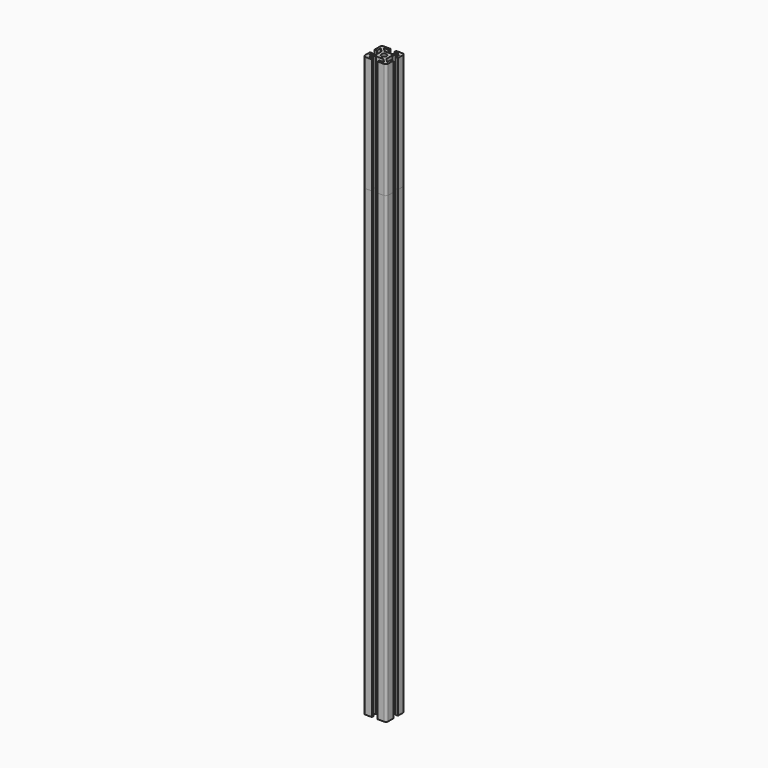
from build123d import *

# Parameters (mm, degrees)
F0_R     = 2.25
F1_DEPTH = 500
F2_DEPTH = 500
F3_DEPTH = 400


with BuildPart() as f1:
    # F0 (on Top) → F1 (new body)
    with BuildSketch(Plane.XY):
        with BuildLine():
            ThreePointArc((-10, -8), (-9.414214, -9.414214), (-8, -10))
            Line((-8, -10), (-2.5, -10))
            Line((-2.5, -10), (-2.5, -8))
            Line((-2.5, -8), (-6.585786, -8))
            Line((-6.585786, -8), (-3.204844, -4.619057))
            Line((-3.204844, -4.619057), (0, -4.619057))
            Line((0, -4.619057), (3.204844, -4.619057))
            Line((3.204844, -4.619057), (6.585786, -8))
            Line((6.585786, -8), (2.5, -8))
            Line((2.5, -8), (2.5, -10))
            Line((2.5, -10), (8, -10))
            ThreePointArc((8, -10), (9.414214, -9.414214), (10, -8))
            Line((10, -8), (10, -2.5))
            Line((10, -2.5), (8, -2.5))
            Line((8, -2.5), (8, -6.585786))
            Line((8, -6.585786), (4.619057, -3.204844))
            Line((4.619057, -3.204844), (4.619057, 0))
            Line((4.619057, 0), (4.619057, 3.204844))
            Line((4.619057, 3.204844), (8, 6.585786))
            Line((8, 6.585786), (8, 2.5))
            Line((8, 2.5), (10, 2.5))
            Line((10, 2.5), (10, 8))
            ThreePointArc((10, 8), (9.414214, 9.414214), (8, 10))
            Line((8, 10), (2.5, 10))
            Line((2.5, 10), (2.5, 8))
            Line((2.5, 8), (6.585786, 8))
            Line((6.585786, 8), (3.204844, 4.619057))
            Line((3.204844, 4.619057), (0, 4.619057))
            Line((0, 4.619057), (-3.204844, 4.619057))
            Line((-3.204844, 4.619057), (-6.585786, 8))
            Line((-6.585786, 8), (-2.5, 8))
            Line((-2.5, 8), (-2.5, 10))
            Line((-2.5, 10), (-8, 10))
            ThreePointArc((-8, 10), (-9.414214, 9.414214), (-10, 8))
            Line((-10, 8), (-10, 2.5))
            Line((-10, 2.5), (-8, 2.5))
            Line((-8, 2.5), (-8, 6.585786))
            Line((-8, 6.585786), (-4.619057, 3.204844))
            Line((-4.619057, 3.204844), (-4.619057, 0))
            Line((-4.619057, 0), (-4.619057, -3.204844))
            Line((-4.619057, -3.204844), (-8, -6.585786))
            Line((-8, -6.585786), (-8, -2.5))
            Line((-8, -2.5), (-10, -2.5))
            Line((-10, -2.5), (-10, -8))
        make_face()
        Circle(F0_R, mode=Mode.SUBTRACT)
    extrude(amount=F1_DEPTH)


with BuildPart() as f2:
    # F0 (on Top) → F2 (new body)
    with BuildSketch(Plane.XY):
        with BuildLine():
            ThreePointArc((-10, -8), (-9.414214, -9.414214), (-8, -10))
            Line((-8, -10), (-2.5, -10))
            Line((-2.5, -10), (-2.5, -8))
            Line((-2.5, -8), (-6.585786, -8))
            Line((-6.585786, -8), (-3.204844, -4.619057))
            Line((-3.204844, -4.619057), (0, -4.619057))
            Line((0, -4.619057), (3.204844, -4.619057))
            Line((3.204844, -4.619057), (6.585786, -8))
            Line((6.585786, -8), (2.5, -8))
            Line((2.5, -8), (2.5, -10))
            Line((2.5, -10), (8, -10))
            ThreePointArc((8, -10), (9.414214, -9.414214), (10, -8))
            Line((10, -8), (10, -2.5))
            Line((10, -2.5), (8, -2.5))
            Line((8, -2.5), (8, -6.585786))
            Line((8, -6.585786), (4.619057, -3.204844))
            Line((4.619057, -3.204844), (4.619057, 0))
            Line((4.619057, 0), (4.619057, 3.204844))
            Line((4.619057, 3.204844), (8, 6.585786))
            Line((8, 6.585786), (8, 2.5))
            Line((8, 2.5), (10, 2.5))
            Line((10, 2.5), (10, 8))
            ThreePointArc((10, 8), (9.414214, 9.414214), (8, 10))
            Line((8, 10), (2.5, 10))
            Line((2.5, 10), (2.5, 8))
            Line((2.5, 8), (6.585786, 8))
            Line((6.585786, 8), (3.204844, 4.619057))
            Line((3.204844, 4.619057), (0, 4.619057))
            Line((0, 4.619057), (-3.204844, 4.619057))
            Line((-3.204844, 4.619057), (-6.585786, 8))
            Line((-6.585786, 8), (-2.5, 8))
            Line((-2.5, 8), (-2.5, 10))
            Line((-2.5, 10), (-8, 10))
            ThreePointArc((-8, 10), (-9.414214, 9.414214), (-10, 8))
            Line((-10, 8), (-10, 2.5))
            Line((-10, 2.5), (-8, 2.5))
            Line((-8, 2.5), (-8, 6.585786))
            Line((-8, 6.585786), (-4.619057, 3.204844))
            Line((-4.619057, 3.204844), (-4.619057, 0))
            Line((-4.619057, 0), (-4.619057, -3.204844))
            Line((-4.619057, -3.204844), (-8, -6.585786))
            Line((-8, -6.585786), (-8, -2.5))
            Line((-8, -2.5), (-10, -2.5))
            Line((-10, -2.5), (-10, -8))
        make_face()
        Circle(F0_R, mode=Mode.SUBTRACT)
    extrude(amount=F2_DEPTH)


with BuildPart() as f3:
    # F0 (on Top) → F3 (new body)
    with BuildSketch(Plane.XY):
        with BuildLine():
            ThreePointArc((-10, -8), (-9.414214, -9.414214), (-8, -10))
            Line((-8, -10), (-2.5, -10))
            Line((-2.5, -10), (-2.5, -8))
            Line((-2.5, -8), (-6.585786, -8))
            Line((-6.585786, -8), (-3.204844, -4.619057))
            Line((-3.204844, -4.619057), (0, -4.619057))
            Line((0, -4.619057), (3.204844, -4.619057))
            Line((3.204844, -4.619057), (6.585786, -8))
            Line((6.585786, -8), (2.5, -8))
            Line((2.5, -8), (2.5, -10))
            Line((2.5, -10), (8, -10))
            ThreePointArc((8, -10), (9.414214, -9.414214), (10, -8))
            Line((10, -8), (10, -2.5))
            Line((10, -2.5), (8, -2.5))
            Line((8, -2.5), (8, -6.585786))
            Line((8, -6.585786), (4.619057, -3.204844))
            Line((4.619057, -3.204844), (4.619057, 0))
            Line((4.619057, 0), (4.619057, 3.204844))
            Line((4.619057, 3.204844), (8, 6.585786))
            Line((8, 6.585786), (8, 2.5))
            Line((8, 2.5), (10, 2.5))
            Line((10, 2.5), (10, 8))
            ThreePointArc((10, 8), (9.414214, 9.414214), (8, 10))
            Line((8, 10), (2.5, 10))
            Line((2.5, 10), (2.5, 8))
            Line((2.5, 8), (6.585786, 8))
            Line((6.585786, 8), (3.204844, 4.619057))
            Line((3.204844, 4.619057), (0, 4.619057))
            Line((0, 4.619057), (-3.204844, 4.619057))
            Line((-3.204844, 4.619057), (-6.585786, 8))
            Line((-6.585786, 8), (-2.5, 8))
            Line((-2.5, 8), (-2.5, 10))
            Line((-2.5, 10), (-8, 10))
            ThreePointArc((-8, 10), (-9.414214, 9.414214), (-10, 8))
            Line((-10, 8), (-10, 2.5))
            Line((-10, 2.5), (-8, 2.5))
            Line((-8, 2.5), (-8, 6.585786))
            Line((-8, 6.585786), (-4.619057, 3.204844))
            Line((-4.619057, 3.204844), (-4.619057, 0))
            Line((-4.619057, 0), (-4.619057, -3.204844))
            Line((-4.619057, -3.204844), (-8, -6.585786))
            Line((-8, -6.585786), (-8, -2.5))
            Line((-8, -2.5), (-10, -2.5))
            Line((-10, -2.5), (-10, -8))
        make_face()
        Circle(F0_R, mode=Mode.SUBTRACT)
    extrude(amount=F3_DEPTH)


solid = Compound([f1.part, f2.part, f3.part])
